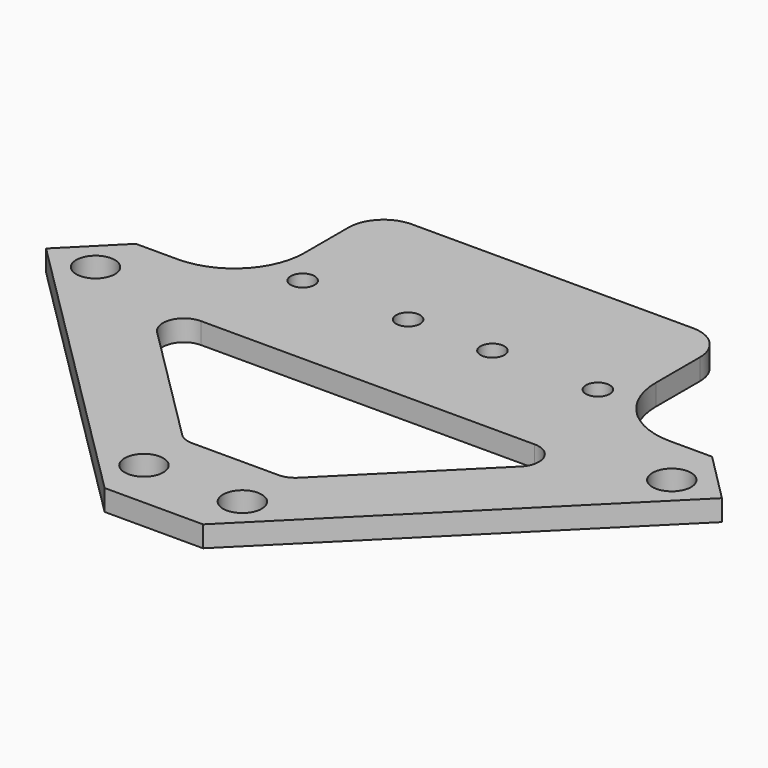
from build123d import *

# Parameters (mm, degrees)
F1_R     = 2.75
F1_R_2   = 1.7
F2_DEPTH = 3


with BuildPart() as f2:
    # F1 (on Top) → F2 (new body)
    with BuildSketch(Plane.XY):
        with BuildLine():
            Line((0, 0), (7, 0))
            Line((7, 0), (48.083883, 40.941477))
            Line((48.083883, 40.941477), (41, 48.05))
            Line((41, 48.05), (35, 48.05))
            ThreePointArc((35, 48.05), (27.928932, 50.978932), (25, 58.05))
            Line((25, 58.05), (25, 65.882149))
            ThreePointArc((25, 65.882149), (23.535534, 69.417683), (20, 70.882149))
            Line((20, 70.882149), (0, 70.882149))
            Line((0, 70.882149), (-20, 70.882149))
            ThreePointArc((-20, 70.882149), (-23.535534, 69.417683), (-25, 65.882149))
            Line((-25, 65.882149), (-25, 58.05))
            ThreePointArc((-25, 58.05), (-27.928932, 50.978932), (-35, 48.05))
            Line((-35, 48.05), (-41, 48.05))
            Line((-41, 48.05), (-48.083883, 40.941477))
            Line((-48.083883, 40.941477), (-7, 0))
            Line((-7, 0), (0, 0))
        make_face()
        with Locations((-7, 7)):
            Circle(F1_R, mode=Mode.SUBTRACT)
        with Locations((7, 7)):
            Circle(F1_R, mode=Mode.SUBTRACT)
        with BuildLine():
            Line((6.144092, 14.5), (0, 14.5))
            Line((0, 14.5), (-6.144092, 14.5))
            ThreePointArc((-6.144092, 14.5), (-7.289736, 14.727366), (-8.261726, 15.375))
            Line((-8.261726, 15.375), (-25.87277, 32.925))
            ThreePointArc((-25.87277, 32.925), (-26.52777, 36.195644), (-23.755136, 38.05))
            Line((-23.755136, 38.05), (0, 38.05))
            Line((0, 38.05), (23.755136, 38.05))
            ThreePointArc((23.755136, 38.05), (26.52777, 36.195644), (25.87277, 32.925))
            Line((25.87277, 32.925), (8.261726, 15.375))
            ThreePointArc((8.261726, 15.375), (7.289736, 14.727366), (6.144092, 14.5))
        make_face(mode=Mode.SUBTRACT)
        with Locations((-41, 40.882149)):
            Circle(F1_R, mode=Mode.SUBTRACT)
        with Locations((-21, 52.732149)):
            Circle(F1_R_2, mode=Mode.SUBTRACT)
        with Locations((-6, 52.732149)):
            Circle(F1_R_2, mode=Mode.SUBTRACT)
        with Locations((6, 52.732149)):
            Circle(F1_R_2, mode=Mode.SUBTRACT)
        with Locations((21, 52.732149)):
            Circle(F1_R_2, mode=Mode.SUBTRACT)
        with Locations((41, 40.882149)):
            Circle(F1_R, mode=Mode.SUBTRACT)
    extrude(amount=F2_DEPTH)


solid = f2.part
